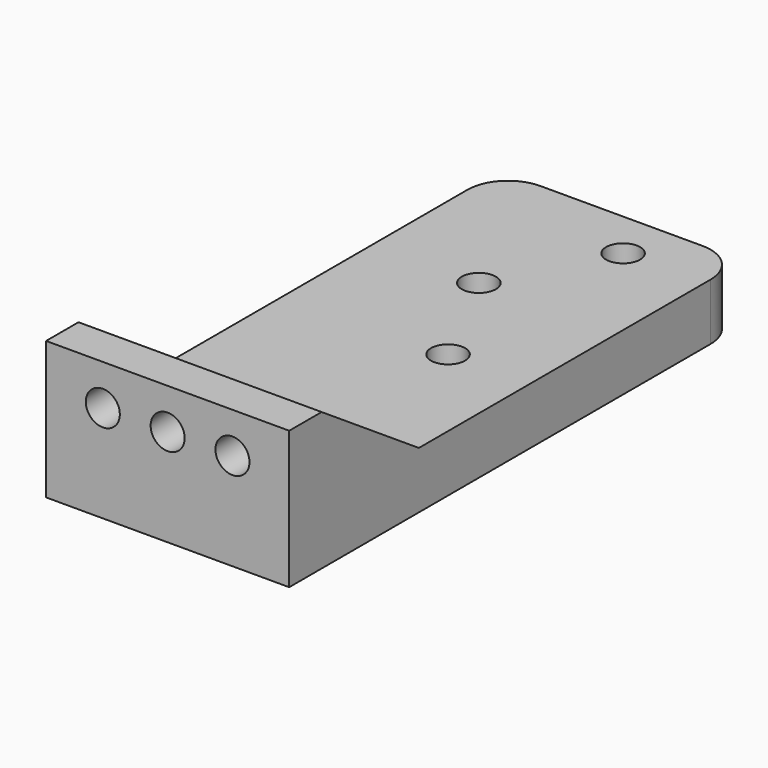
from build123d import *

# Parameters (mm, degrees)
SKETCH_W        = 30
SKETCH_H        = 65
PAD_DEPTH       = 7
SKETCH001_W     = 5
SKETCH001_H     = 17
PAD001_DEPTH    = 30
PAD002_DEPTH    = 6
PAD003_DEPTH    = 6
SKETCH004_R     = 2.1
POCKET_DEPTH    = 12
SKETCH005_R     = 2.1
POCKET001_DEPTH = 5
FILLET_R        = 5


with BuildPart() as part:
    # Sketch → Pad (new body)
    with BuildSketch(Plane.XY):
        with Locations((15, 32.5)):
            Rectangle(SKETCH_W, SKETCH_H)
    extrude(amount=PAD_DEPTH)

    # Sketch001 (on DatumPlane) → Pad001 (join)
    with BuildSketch(Plane.YZ.offset(30)):
        with Locations((-2.5, 8.5)):
            Rectangle(SKETCH001_W, SKETCH001_H)
    extrude(amount=-PAD001_DEPTH)

    # Sketch002 (on DatumPlane) → Pad002 (join)
    with BuildSketch(Plane.YZ.offset(30)):
        Polygon((0, 17), (0, 7), (15, 7), align=None)
    extrude(amount=-PAD002_DEPTH)

    # Sketch003 (on DatumPlane) → Pad003 (join)
    with BuildSketch(Plane(origin=(0, 0, 0), x_dir=(0, -1, 0), z_dir=(-1, 0, 0))):
        Polygon((0, 17), (0, 7), (-15, 7), align=None)
    extrude(amount=-PAD003_DEPTH)

    # Sketch004 (on Face6 of Pad003) → Pocket (cut)
    with BuildSketch(Plane.XY.offset(7)):
        with Locations((20, 59)):
            Circle(SKETCH004_R)
        with Locations((20, 32)):
            Circle(SKETCH004_R)
        with Locations((13, 45.5)):
            Circle(SKETCH004_R)
    extrude(amount=-POCKET_DEPTH, mode=Mode.SUBTRACT)

    # Sketch005 (on Face8 of Pocket) → Pocket001 (cut)
    with BuildSketch(Plane.XZ.offset(5)):
        with Locations((7.000014, 11.981068)):
            Circle(SKETCH005_R)
        with Locations((15.000001, 11.995259)):
            Circle(SKETCH005_R)
        with Locations((23, 12)):
            Circle(SKETCH005_R)
    extrude(amount=-POCKET001_DEPTH, mode=Mode.SUBTRACT)

    # Fillet
    fillet_edges = [part.edges().sort_by_distance(p)[0] for p in [
        (0, 65, 3.5),
        (30, 65, 3.5),
    ]]
    fillet(fillet_edges, radius=FILLET_R)


solid = part.part
